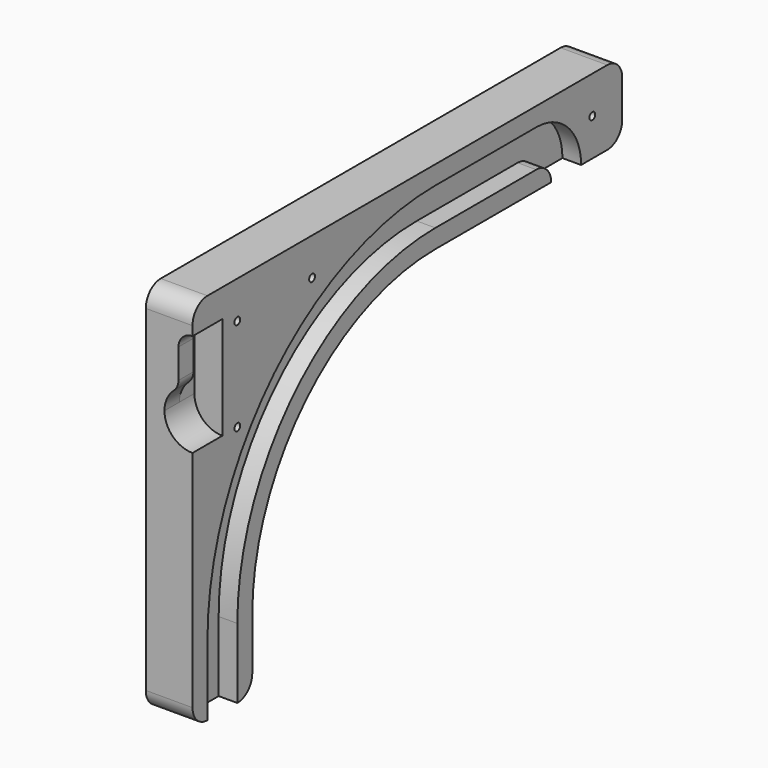
from build123d import *

# Parameters (mm, degrees)
PAD003_DEPTH    = 10
POCKET003_DEPTH = 4
SKETCH008_R     = 0.775
POCKET004_DEPTH = 10.001
FILLET_R        = 4
POCKET005_DEPTH = 8
PAD004_DEPTH    = 4


with BuildPart() as wall_mount_left001:
    # Sketch006 → Pad003 (new body)
    with BuildSketch(Plane.YZ):
        with BuildLine():
            Line((-100, 80), (15, 80))
            Line((15, 80), (15, 64))
            Line((15, 64), (-35, 64))
            ThreePointArc((-35, 64), (-69.648232, 49.648232), (-84, 15))
            Line((-84, 15), (-84, 0))
            Line((-84, 0), (-100, 0))
            Line((-100, 0), (-100, 80))
        make_face()
    extrude(amount=PAD003_DEPTH)

    # Sketch007 (on Face8 of Pad003) → Pocket003 (cut)
    with BuildSketch(Plane(origin=(0, 0, 0), x_dir=(0, 1, 0), z_dir=(-1, 0, 0))):
        with BuildLine():
            Line((-88, 0), (-88, -15))
            ThreePointArc((-88, -15), (-72.476659, -52.476659), (-35, -68))
            Line((-35, -68), (-8, -68))
            ThreePointArc((-8, -68), (-5.171573, -66.828427), (-4, -64))
            Line((-4, -64), (4, -64))
            ThreePointArc((-8, -76), (0.485281, -72.485281), (4, -64))
            Line((-8, -76), (-35, -76))
            ThreePointArc((-96, -15), (-78.133514, -58.133514), (-35, -76))
            Line((-96, -15), (-96, 0))
            Line((-96, 0), (-88, 0))
        make_face()
    extrude(amount=-POCKET003_DEPTH, mode=Mode.SUBTRACT)

    # Sketch008 (on Face4 of Pocket003) → Pocket004 (cut, through all)
    with BuildSketch(Plane(origin=(0, 0, 0), x_dir=(0, 1, 0), z_dir=(-1, 0, 0))):
        with Locations((-88, -52)):
            Circle(SKETCH008_R)
        with Locations((-68, -72)):
            Circle(SKETCH008_R)
        with Locations((-88, -72)):
            Circle(SKETCH008_R)
        with Locations((7, -72)):
            Circle(SKETCH008_R)
    extrude(amount=-POCKET004_DEPTH, mode=Mode.SUBTRACT)

    # Fillet
    fillet_edges = [wall_mount_left001.edges().sort_by_distance(p)[0] for p in [
        (5, 15, 64),
        (5, 15, 80),
        (5, -100, 80),
        (5, -100, 0),
        (5, -84, 0),
    ]]
    fillet(fillet_edges, radius=FILLET_R)

    # Sketch009 (on Face6 of Fillet) → Pocket005 (cut)
    with BuildSketch(Plane(origin=(0, -100, 0), x_dir=(0, 0, -1), z_dir=(0, -1, 0))):
        with BuildLine():
            ThreePointArc((-68, 6), (-74, 0), (-68, -6))
            Line((-68, -6), (-58, -6))
            ThreePointArc((-58, -6), (-52, 0), (-58, 6))
            Line((-68, 6), (-58, 6))
        make_face()
    extrude(amount=-POCKET005_DEPTH, mode=Mode.SUBTRACT)

    # Sketch010 (on Face14 of Pocket005) → Pad004 (join)
    with BuildSketch(Plane(origin=(0, -100, 0), x_dir=(0, 0, -1), z_dir=(0, -1, 0))):
        with BuildLine():
            ThreePointArc((-71, 3), (-73.12132, 2.12132), (-74, 0))
            ThreePointArc((-68, 6), (-72.242641, 4.242641), (-74, 0))
            Line((-58, 6), (-68, 6))
            ThreePointArc((-58, 6), (-60.44949, 5.477226), (-62.472136, 4))
            ThreePointArc((-64.708204, 3), (-63.483459, 3.261387), (-62.472136, 4))
            Line((-71, 3), (-64.708204, 3))
        make_face()
    extrude(amount=-PAD004_DEPTH)


with BuildPart() as wall_mount_right_mirrored:
    # Mirror: instance of Wall_mount_left001
    add(wall_mount_left001.part.mirror(Plane(origin=(0, 0, 0), x_dir=(0, 1, 0), z_dir=(-1, 0, 0))))


solid = wall_mount_right_mirrored.part
